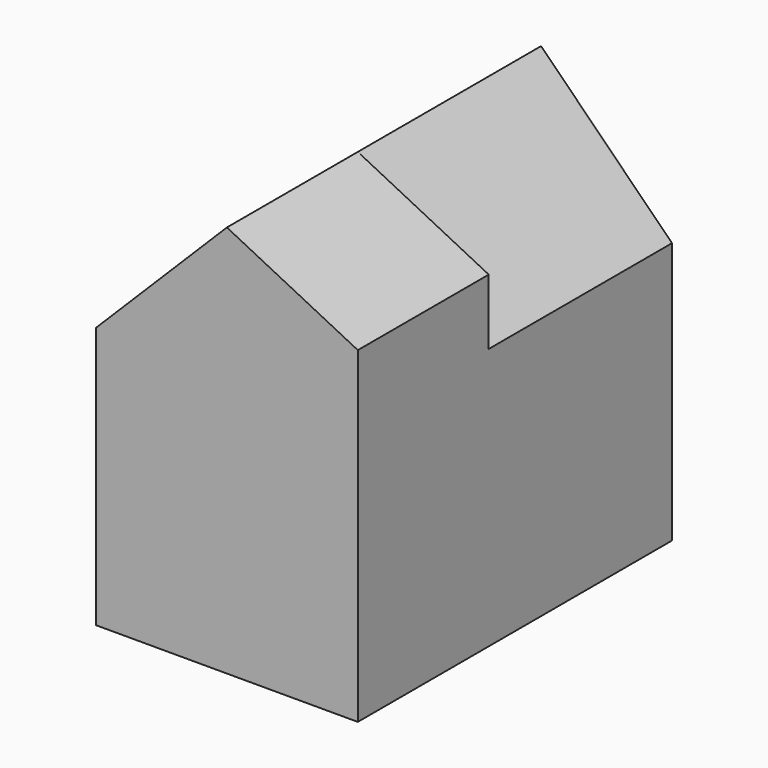
from build123d import *

# Parameters (mm, degrees)
F0_W     = 203.2
F0_H     = 203.2
F1_DEPTH = 177.8
F3_DEPTH = 177.8
F4_W     = 203.2
F4_H     = 152.4
F5_DEPTH = 127
F6_DEPTH = 127


with BuildPart() as f1:
    # F0 (on Front) → F1 (new body)
    with BuildSketch(Plane.XZ):
        Rectangle(F0_W, F0_H)
    extrude(amount=F1_DEPTH)

    # F2 (on face) → F3 (join)
    with BuildSketch(Plane(origin=(0, 0, 0), x_dir=(-1, 0, 0), z_dir=(0, 1, 0))):
        Polygon((0, 203.2), (-101.6, 101.6), (101.6, 101.6), align=None)
    extrude(amount=-F3_DEPTH)

    # F4 (on face) → F5 (join)
    with BuildSketch(Plane.XZ.offset(177.8)):
        with Locations((0, -25.4)):
            Rectangle(F4_W, F4_H)
    extrude(amount=F5_DEPTH)

    # F4 (on face) → F6 (join)
    with BuildSketch(Plane.XZ.offset(177.8)):
        Polygon((-101.6, 101.6), (-101.6, 50.8), (101.6, 50.8), (101.6, 101.6), (0, 203.2), align=None)
        Polygon((0, 203.2), (101.6, 101.6), (101.6, 152.4), align=None)
    extrude(amount=F6_DEPTH)


solid = f1.part
